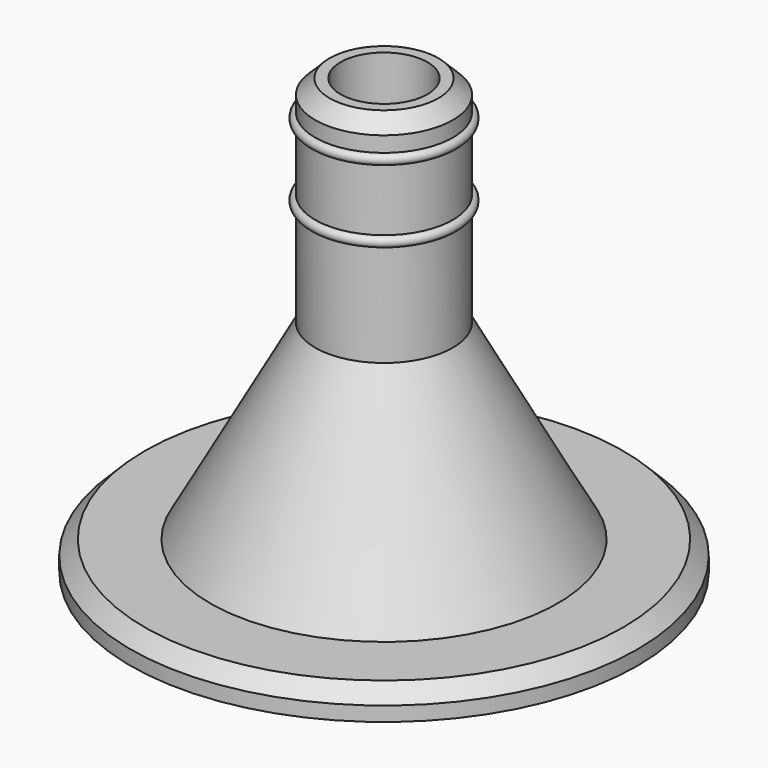
from build123d import *

# Parameters (mm, degrees)
F2_SIZE = 2


with BuildPart() as f1:
    # F0 (on Front) → F1 (revolve)
    with BuildSketch(Plane.XZ):
        with BuildLine():
            Line((-35, 4), (-35, 0))
            Line((-35, 0), (-20, 0))
            Line((-20, 0), (-20, 4))
            Line((-20, 4), (-6, 29.4420632164))
            Line((-6, 29.4420632164), (-6, 60))
            Line((-6, 60), (-9.5, 60))
            Line((-9.5, 60), (-9.5, 55.8707241636))
            ThreePointArc((-9.5, 55.8707241636), (-9.0050252532, 55.6656989104), (-8.8, 55.1707241636))
            ThreePointArc((-8.8, 55.1707241636), (-9.0050252532, 54.6757494168), (-9.5, 54.4707241636))
            Line((-9.5, 54.4707241636), (-9.5, 45.8707241636))
            ThreePointArc((-9.5, 45.8707241636), (-9.0050252532, 45.6656989104), (-8.8, 45.1707241636))
            ThreePointArc((-8.8, 45.1707241636), (-9.0050252532, 44.6757494168), (-9.5, 44.4707241636))
            Line((-9.5, 44.4707241636), (-9.5, 30.3414483272))
            Line((-9.5, 30.3414483272), (-23.9949044991, 4))
            Line((-23.9949044991, 4), (-35, 4))
        make_face()
        with BuildLine():
            ThreePointArc((-9.5, 45.8707241636), (-10.2, 45.1707241636), (-9.5, 44.4707241636))
            Line((-9.5, 44.4707241636), (-9.5, 45.8707241636))
        make_face()
        with BuildLine():
            Line((-9.5, 45.8707241636), (-9.5, 44.4707241636))
            ThreePointArc((-9.5, 44.4707241636), (-9.0050252532, 44.6757494168), (-8.8, 45.1707241636))
            ThreePointArc((-8.8, 45.1707241636), (-9.0050252532, 45.6656989104), (-9.5, 45.8707241636))
        make_face()
        with BuildLine():
            ThreePointArc((-9.5, 55.8707241636), (-10.2, 55.1707241636), (-9.5, 54.4707241636))
            Line((-9.5, 54.4707241636), (-9.5, 55.8707241636))
        make_face()
        with BuildLine():
            Line((-9.5, 55.8707241636), (-9.5, 54.4707241636))
            ThreePointArc((-9.5, 54.4707241636), (-9.0050252532, 54.6757494168), (-8.8, 55.1707241636))
            ThreePointArc((-8.8, 55.1707241636), (-9.0050252532, 55.6656989104), (-9.5, 55.8707241636))
        make_face()
    revolve(axis=Axis((0, 0, 22.4953535944), (0, 0, 1)))

    # F2
    f2_edges = [f1.edges().sort_by_distance(p)[0] for p in [
        (35, 0, 4),
        (9.5, 0, 60),
        (20, 0, 0),
    ]]
    chamfer(f2_edges, length=F2_SIZE)


solid = f1.part
